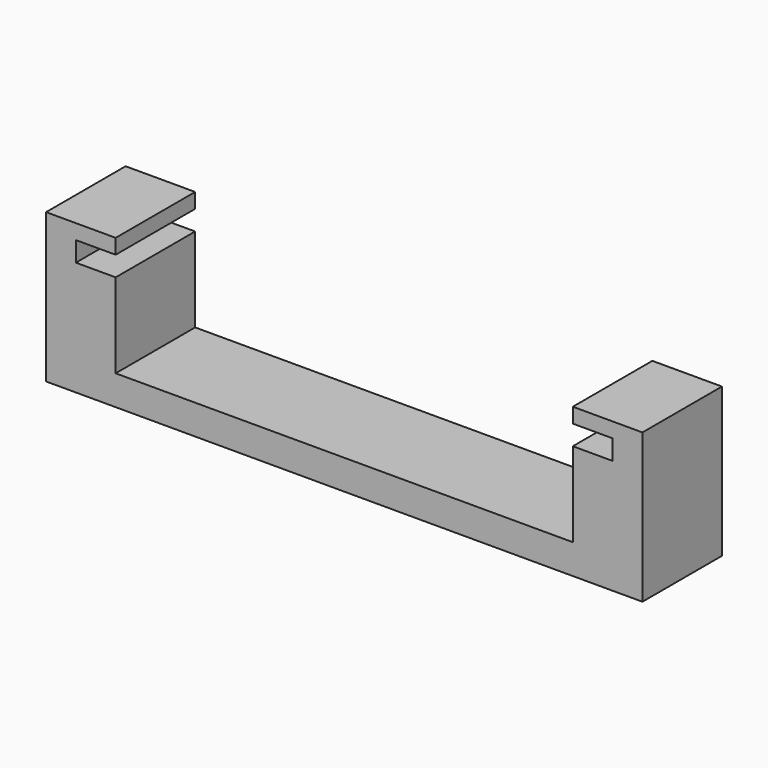
from build123d import *

# Parameters (mm, degrees)
F0_W     = 60
F0_H     = 10
F1_DEPTH = 15
F2_W     = 4
F2_H     = 2
F3_DEPTH = 10.001


with BuildPart() as f1:
    # F0 (on Top) → F1 (new body)
    with BuildSketch(Plane.XY):
        Rectangle(F0_W, F0_H)
    extrude(amount=F1_DEPTH)

    # F2 (on face) → F3 (cut, through all)
    with BuildSketch(Plane.XZ.offset(5)):
        Polygon((23, 15), (-23, 15), (-23, 13.5), (-23, 11.5), (-23, 3), (23, 3), (23, 11.5), (23, 13.5), align=None)
        with Locations((-25, 12.5)):
            Rectangle(F2_W, F2_H)
        with Locations((25, 12.5)):
            Rectangle(F2_W, F2_H)
    extrude(amount=-F3_DEPTH, mode=Mode.SUBTRACT)


solid = f1.part
